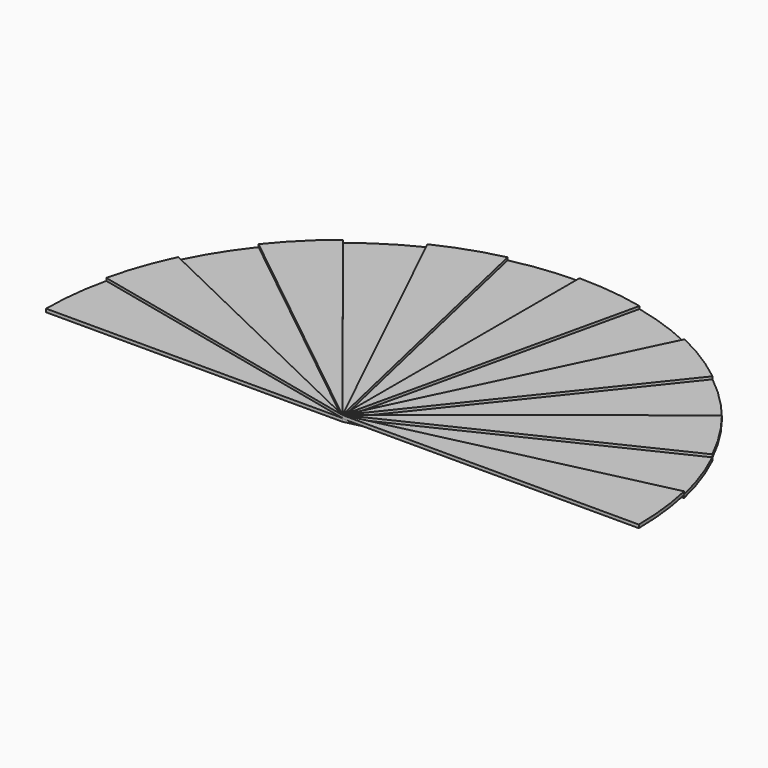
from build123d import *

# Parameters (mm, degrees)
F1_DEPTH = 0.1
F2_DEPTH = 1
F3_DEPTH = 1


with BuildPart() as f1:
    # F0 (on Top) → F1 (new body, symmetric)
    with BuildSketch(Plane.XY):
        with BuildLine():
            Line((97.492791, 22.252093), (0, 0))
            Line((0, 0), (100, 0))
            ThreePointArc((100, 0), (99.371221, 11.196448), (97.492791, 22.252093))
        make_face()
        with BuildLine():
            Line((-100, 0), (0, 0))
            Line((0, 0), (-97.492791, 22.252093))
            ThreePointArc((-97.492791, 22.252093), (-99.371221, 11.196448), (-100, 0))
        make_face()
        with BuildLine():
            Line((-97.492791, 22.252093), (0, 0))
            Line((0, 0), (-90.096887, 43.388374))
            ThreePointArc((-90.096887, 43.388374), (-94.388333, 33.027906), (-97.492791, 22.252093))
        make_face()
        with BuildLine():
            Line((-90.096887, 43.388374), (0, 0))
            Line((0, 0), (-78.183148, 62.34898))
            ThreePointArc((-78.183148, 62.34898), (-84.67242, 53.203208), (-90.096887, 43.388374))
        make_face()
        with BuildLine():
            Line((-78.183148, 62.34898), (0, 0))
            Line((0, 0), (-62.34898, 78.183148))
            ThreePointArc((-62.34898, 78.183148), (-70.710678, 70.710678), (-78.183148, 62.34898))
        make_face()
        with BuildLine():
            Line((-62.34898, 78.183148), (0, 0))
            Line((0, 0), (-43.388374, 90.096887))
            ThreePointArc((-43.388374, 90.096887), (-53.203208, 84.67242), (-62.34898, 78.183148))
        make_face()
        with BuildLine():
            Line((-43.388374, 90.096887), (0, 0))
            Line((0, 0), (-22.252093, 97.492791))
            ThreePointArc((-22.252093, 97.492791), (-33.027906, 94.388333), (-43.388374, 90.096887))
        make_face()
        with BuildLine():
            Line((-22.252093, 97.492791), (0, 0))
            Line((0, 0), (0, 100))
            ThreePointArc((0, 100), (-11.196448, 99.371221), (-22.252093, 97.492791))
        make_face()
        with BuildLine():
            Line((0, 100), (0, 0))
            Line((0, 0), (22.252093, 97.492791))
            ThreePointArc((22.252093, 97.492791), (11.196448, 99.371221), (0, 100))
        make_face()
        with BuildLine():
            Line((22.252093, 97.492791), (0, 0))
            Line((0, 0), (43.388374, 90.096887))
            ThreePointArc((43.388374, 90.096887), (33.027906, 94.388333), (22.252093, 97.492791))
        make_face()
        with BuildLine():
            Line((43.388374, 90.096887), (0, 0))
            Line((0, 0), (62.34898, 78.183148))
            ThreePointArc((62.34898, 78.183148), (53.203208, 84.67242), (43.388374, 90.096887))
        make_face()
        with BuildLine():
            Line((62.34898, 78.183148), (0, 0))
            Line((0, 0), (78.183148, 62.34898))
            ThreePointArc((78.183148, 62.34898), (70.710678, 70.710678), (62.34898, 78.183148))
        make_face()
        with BuildLine():
            Line((78.183148, 62.34898), (0, 0))
            Line((0, 0), (90.096887, 43.388374))
            ThreePointArc((90.096887, 43.388374), (84.67242, 53.203208), (78.183148, 62.34898))
        make_face()
        with BuildLine():
            Line((90.096887, 43.388374), (0, 0))
            Line((0, 0), (97.492791, 22.252093))
            ThreePointArc((97.492791, 22.252093), (94.388333, 33.027906), (90.096887, 43.388374))
        make_face()
    extrude(amount=F1_DEPTH, both=True)


with BuildPart() as f2:
    # F0 (on Top) → F2 (new body)
    with BuildSketch(Plane.XY):
        with BuildLine():
            Line((-100, 0), (0, 0))
            Line((0, 0), (-97.492791, 22.252093))
            ThreePointArc((-97.492791, 22.252093), (-99.371221, 11.196448), (-100, 0))
        make_face()
        with BuildLine():
            Line((-90.096887, 43.388374), (0, 0))
            Line((0, 0), (-78.183148, 62.34898))
            ThreePointArc((-78.183148, 62.34898), (-84.67242, 53.203208), (-90.096887, 43.388374))
        make_face()
        with BuildLine():
            Line((-62.34898, 78.183148), (0, 0))
            Line((0, 0), (-43.388374, 90.096887))
            ThreePointArc((-43.388374, 90.096887), (-53.203208, 84.67242), (-62.34898, 78.183148))
        make_face()
        with BuildLine():
            Line((-22.252093, 97.492791), (0, 0))
            Line((0, 0), (0, 100))
            ThreePointArc((0, 100), (-11.196448, 99.371221), (-22.252093, 97.492791))
        make_face()
        with BuildLine():
            Line((22.252093, 97.492791), (0, 0))
            Line((0, 0), (43.388374, 90.096887))
            ThreePointArc((43.388374, 90.096887), (33.027906, 94.388333), (22.252093, 97.492791))
        make_face()
        with BuildLine():
            Line((62.34898, 78.183148), (0, 0))
            Line((0, 0), (78.183148, 62.34898))
            ThreePointArc((78.183148, 62.34898), (70.710678, 70.710678), (62.34898, 78.183148))
        make_face()
        with BuildLine():
            Line((90.096887, 43.388374), (0, 0))
            Line((0, 0), (97.492791, 22.252093))
            ThreePointArc((97.492791, 22.252093), (94.388333, 33.027906), (90.096887, 43.388374))
        make_face()
    extrude(amount=-F2_DEPTH)


with BuildPart() as f3:
    # F0 (on Top) → F3 (new body)
    with BuildSketch(Plane.XY):
        with BuildLine():
            Line((-97.492791, 22.252093), (0, 0))
            Line((0, 0), (-90.096887, 43.388374))
            ThreePointArc((-90.096887, 43.388374), (-94.388333, 33.027906), (-97.492791, 22.252093))
        make_face()
        with BuildLine():
            Line((-78.183148, 62.34898), (0, 0))
            Line((0, 0), (-62.34898, 78.183148))
            ThreePointArc((-62.34898, 78.183148), (-70.710678, 70.710678), (-78.183148, 62.34898))
        make_face()
        with BuildLine():
            Line((-43.388374, 90.096887), (0, 0))
            Line((0, 0), (-22.252093, 97.492791))
            ThreePointArc((-22.252093, 97.492791), (-33.027906, 94.388333), (-43.388374, 90.096887))
        make_face()
        with BuildLine():
            Line((0, 100), (0, 0))
            Line((0, 0), (22.252093, 97.492791))
            ThreePointArc((22.252093, 97.492791), (11.196448, 99.371221), (0, 100))
        make_face()
        with BuildLine():
            Line((43.388374, 90.096887), (0, 0))
            Line((0, 0), (62.34898, 78.183148))
            ThreePointArc((62.34898, 78.183148), (53.203208, 84.67242), (43.388374, 90.096887))
        make_face()
        with BuildLine():
            Line((78.183148, 62.34898), (0, 0))
            Line((0, 0), (90.096887, 43.388374))
            ThreePointArc((90.096887, 43.388374), (84.67242, 53.203208), (78.183148, 62.34898))
        make_face()
        with BuildLine():
            Line((97.492791, 22.252093), (0, 0))
            Line((0, 0), (100, 0))
            ThreePointArc((100, 0), (99.371221, 11.196448), (97.492791, 22.252093))
        make_face()
    extrude(amount=F3_DEPTH)


solid = Compound([f1.part, f2.part, f3.part])
